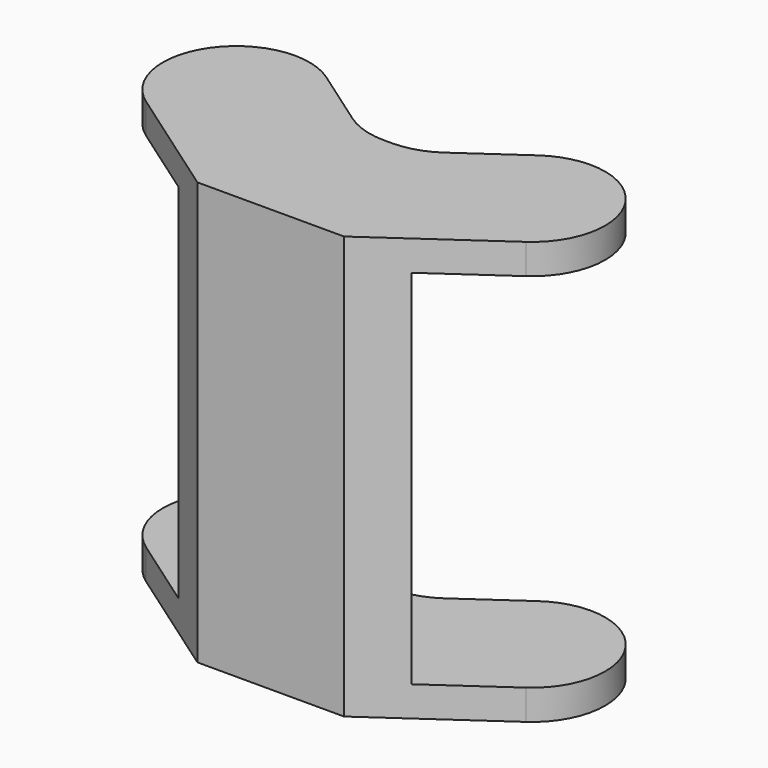
from build123d import *

# Parameters (mm, degrees)
F2_DEPTH = 49
F3_W     = 68.4839616117
F3_H     = 42
F4_DEPTH = 499.5


with BuildPart() as f2:
    # F0 (on Top) → F2 (new body)
    with BuildSketch(Plane.XY):
        with BuildLine():
            Line((-8.5, 0), (0, 0))
            Line((0, 0), (0, 17))
            Line((0, 17), (-0.4598808836, 17))
            ThreePointArc((-0.4598808836, 17), (-3.0158801794, 17.3934059186), (-5.3352805926, 18.5372076235))
            Line((-5.3352805926, 18.5372076235), (-12.2652093128, 23.3895959527))
            ThreePointArc((-12.2652093128, 23.3895959527), (-18.616618532, 24.7976694769), (-24.1034013982, 21.3022032852))
            ThreePointArc((-24.1034013982, 21.3022032852), (-25.5114749224, 14.9507940661), (-22.0160087308, 9.4640111998))
            Line((-22.0160087308, 9.4640111998), (-8.5, 0))
        make_face()
        with BuildLine():
            Line((0, 17), (0, 0))
            Line((0, 0), (8.5, 0))
            Line((8.5, 0), (22.0160087308, 9.4640111998))
            ThreePointArc((22.0160087308, 9.4640111998), (25.5114749224, 14.9507940661), (24.1034013982, 21.3022032852))
            ThreePointArc((24.1034013982, 21.3022032852), (18.616618532, 24.7976694769), (12.2652093128, 23.3895959527))
            Line((12.2652093128, 23.3895959527), (5.3352805926, 18.5372076235))
            ThreePointArc((5.3352805926, 18.5372076235), (3.0158801794, 17.3934059186), (0.4598808836, 17))
            Line((0.4598808836, 17), (0, 17))
        make_face()
    extrude(amount=F2_DEPTH)

    # F3 (on Right) → F4 (cut, symmetric)
    with BuildSketch(Plane.YZ):
        with Locations((37.7419808059, 24.5)):
            Rectangle(F3_W, F3_H)
    extrude(amount=F4_DEPTH, both=True, mode=Mode.SUBTRACT)


solid = f2.part
